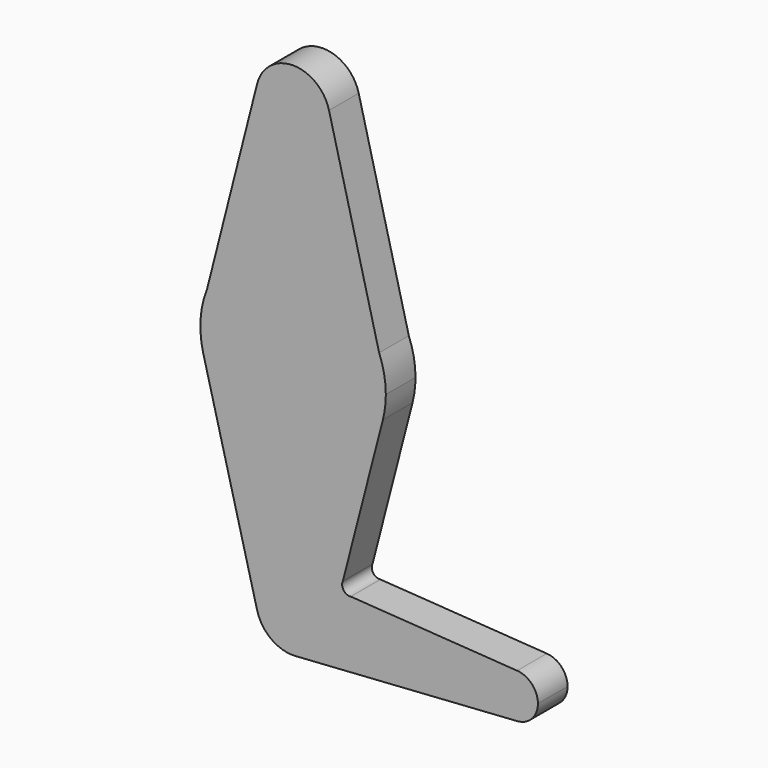
from build123d import *

# Parameters (mm, degrees)
F1_DEPTH = 25.4


with BuildPart() as f1:
    # F0 (on Front) → F1 (new body)
    with BuildSketch(Plane.XZ):
        with BuildLine():
            ThreePointArc((1.693333, -25.343493), (18.549537, -17.351503), (25.4, 0))
            ThreePointArc((25.4, 0), (-3.200509, 25.197554), (-24.593444, -6.35))
            ThreePointArc((-24.593444, -6.35), (-14.875885, -20.588056), (1.693333, -25.343493))
        make_face()
        with BuildLine():
            ThreePointArc((-24.593444, -6.35), (-3.200509, 25.197554), (25.4, 0))
            ThreePointArc((25.4, 0), (18.549537, -17.351503), (1.693333, -25.343493))
            Line((1.693333, -25.343493), (153.416, -15.206096))
            ThreePointArc((153.416, -15.206096), (137.16, 0), (153.416, 15.206096))
            Line((153.416, 15.206096), (39.533764, 22.815173))
            ThreePointArc((39.533764, 22.815173), (34.576634, 25.03107), (34.092398, 30.439291))
            Line((34.092398, 30.439291), (61.483611, 136.525))
            ThreePointArc((61.483611, 136.525), (0, 88.9), (-61.483611, 136.525))
            Line((-61.483611, 136.525), (-24.593444, -6.35))
        make_face()
        with BuildLine():
            ThreePointArc((-58.928772, 176.05692), (-63.367804, 156.495287), (-61.483611, 136.525))
            ThreePointArc((-61.483611, 136.525), (0, 88.9), (61.483611, 136.525))
            ThreePointArc((61.483611, 136.525), (62.993886, 144.398727), (63.5, 152.4))
            ThreePointArc((63.5, 152.4), (62.34672, 164.447261), (58.928772, 176.05692))
            ThreePointArc((58.928772, 176.05692), (0, 215.9), (-58.928772, 176.05692))
        make_face()
        with BuildLine():
            ThreePointArc((153.416, 15.206096), (137.16, 0), (153.416, -15.206096))
            ThreePointArc((153.416, -15.206096), (163.529722, -10.410902), (167.64, 0))
            ThreePointArc((167.64, 0), (163.529722, 10.410902), (153.416, 15.206096))
        make_face()
        with BuildLine():
            Line((-24.61734, 311.056722), (-58.928772, 176.05692))
            ThreePointArc((-58.928772, 176.05692), (0, 215.9), (58.928772, 176.05692))
            Line((58.928772, 176.05692), (24.61734, 311.056722))
            ThreePointArc((24.61734, 311.056722), (25.203576, 307.952742), (25.4, 304.8))
            ThreePointArc((25.4, 304.8), (-3.152742, 279.596424), (-24.61734, 311.056722))
        make_face()
        with BuildLine():
            ThreePointArc((24.61734, 311.056722), (0, 330.2), (-24.61734, 311.056722))
            ThreePointArc((-24.61734, 311.056722), (-3.152742, 279.596424), (25.4, 304.8))
            ThreePointArc((25.4, 304.8), (25.203576, 307.952742), (24.61734, 311.056722))
        make_face()
    extrude(amount=F1_DEPTH)


solid = f1.part
